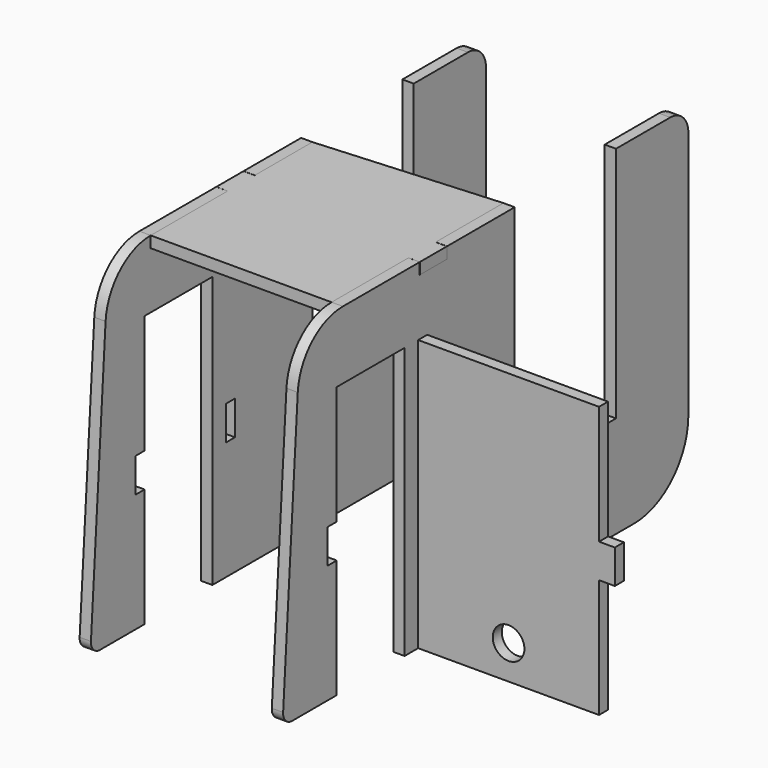
from build123d import *

# Parameters (mm, degrees)
F0_W     = 5
F0_H     = 15.1
F1_DEPTH = 5
F2_R     = 7
F2_W     = 8
F2_H     = 15
F2_W_2   = 7
F3_DEPTH = 5
F5_W     = 56
F5_H     = 16
F5_W_2   = 5
F5_H_2   = 15.1
F6_DEPTH = 5
F7_W     = 5
F7_H     = 15
F8_DEPTH = 5


with BuildPart() as f1:
    # F0 (on Right) → F1 (new body)
    with BuildSketch(Plane.YZ):
        with BuildLine():
            Line((5, -105), (5, 0))
            Line((5, 0), (0, 0))
            Line((0, 0), (-32.411173, 0))
            Line((-32.411173, 0), (-32.411173, -5))
            Line((-32.411173, -5), (-47.511173, -5))
            Line((-47.511173, -5), (-47.511173, 0))
            Line((-47.511173, 0), (-90.011173, 0))
            ThreePointArc((-90.011173, 0), (-107.090775, -6.743845), (-114.955802, -23.337025))
            Line((-114.955802, -23.337025), (-123.044494, -144.667405))
            ThreePointArc((-123.044494, -144.667405), (-121.706799, -148.41592), (-118.055568, -150))
            Line((-118.055568, -150), (-93.4, -150))
            Line((-93.4, -150), (-93.4, -97.55))
            Line((-93.4, -97.55), (-98.4, -97.55))
            Line((-98.4, -97.55), (-98.4, -82.45))
            Line((-98.4, -82.45), (-93.4, -82.45))
            Line((-93.4, -82.45), (-93.4, -30))
            Line((-93.4, -30), (-55.9, -30))
            Line((-55.9, -30), (-55.9, -150))
            Line((-55.9, -150), (-48.4, -150))
            Line((-48.4, -150), (71, -150))
            ThreePointArc((71, -150), (92.213203, -141.213203), (101, -120))
            Line((101, -120), (101, -10))
            ThreePointArc((101, -10), (98.071068, -2.928932), (91, 0))
            Line((91, 0), (61, 0))
            Line((61, 0), (61, -105))
            Line((61, -105), (5, -105))
        make_face()
        with Locations((-45.9, -90)):
            Rectangle(F0_W, F0_H, mode=Mode.SUBTRACT)
    extrude(amount=F1_DEPTH)


with BuildPart() as f3:
    # F2 (on face) → F3 (new body)
    with BuildSketch(Plane.XZ.offset(43.4)):
        Polygon((85, -30), (5, -30), (5, -82.5), (5, -97.5), (5, -150), (85, -150), (85, -97.5), (85, -82.5), align=None)
        with Locations((45, -135)):
            Circle(F2_R, mode=Mode.SUBTRACT)
        with Locations((1, -90)):
            Rectangle(F2_W, F2_H)
        with Locations((88.5, -90)):
            Rectangle(F2_W_2, F2_H)
    extrude(amount=F3_DEPTH)


with BuildPart() as f6:
    # F5 (on offset) → F6 (new body)
    with BuildSketch(Plane.YZ.offset(-80)):
        with Locations((27.4, -97)):
            Rectangle(F5_W, F5_H)
        with BuildLine():
            Line((-0.6, -89), (-0.6, 0))
            Line((-0.6, 0), (-5.6, 0))
            Line((-5.6, 0), (-32.411173, 0))
            Line((-32.411173, 0), (-32.411173, -5))
            Line((-32.411173, -5), (-47.511173, -5))
            Line((-47.511173, -5), (-47.511173, 0))
            Line((-47.511173, 0), (-90.011173, 0))
            ThreePointArc((-90.011173, 0), (-107.090775, -6.743845), (-114.955802, -23.337025))
            Line((-114.955802, -23.337025), (-123.044494, -144.667405))
            ThreePointArc((-123.044494, -144.667405), (-121.706799, -148.41592), (-118.055568, -150))
            Line((-118.055568, -150), (-93.4, -150))
            Line((-93.4, -150), (-93.4, -97.55))
            Line((-93.4, -97.55), (-98.4, -97.55))
            Line((-98.4, -97.55), (-98.4, -82.45))
            Line((-98.4, -82.45), (-93.4, -82.45))
            Line((-93.4, -82.45), (-93.4, -30))
            Line((-93.4, -30), (-55.9, -30))
            Line((-55.9, -30), (-55.9, -150))
            Line((-55.9, -150), (-48.4, -150))
            Line((-48.4, -150), (65.4, -150))
            ThreePointArc((65.4, -150), (86.613203, -141.213203), (95.4, -120))
            Line((95.4, -120), (95.4, -10))
            ThreePointArc((95.4, -10), (92.471068, -2.928932), (85.4, 0))
            Line((85.4, 0), (55.4, 0))
            Line((55.4, 0), (55.4, -89))
            Line((55.4, -89), (55.4, -105))
            Line((55.4, -105), (-0.6, -105))
            Line((-0.6, -105), (-0.6, -89))
        make_face()
        with Locations((-45.9, -90)):
            Rectangle(F5_W_2, F5_H_2, mode=Mode.SUBTRACT)
    extrude(amount=-F6_DEPTH)


with BuildPart() as f8:
    # F7 (on Top) → F8 (new body)
    with BuildSketch(Plane.XY):
        Polygon((-80, -90.011173), (0, -90.011173), (0, -47.486173), (0, -32.486173), (0, 5), (-80, -0.6), (-80, -32.486173), (-80, -47.486173), align=None)
        with Locations((2.5, -39.986173)):
            Rectangle(F7_W, F7_H)
        with Locations((-82.5, -39.986173)):
            Rectangle(F7_W, F7_H)
    extrude(amount=-F8_DEPTH)


solid = Compound([f1.part, f3.part, f6.part, f8.part])
